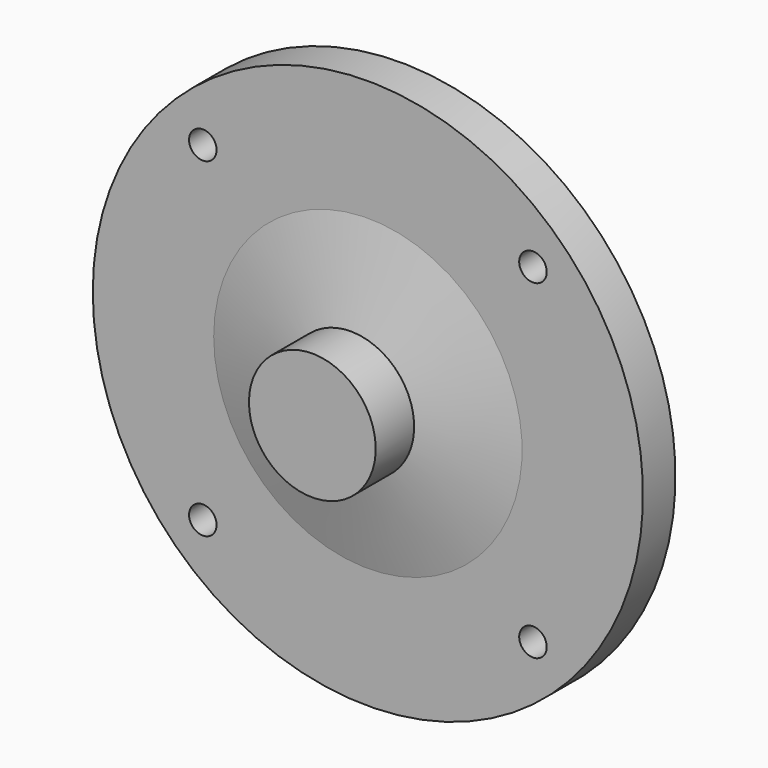
from build123d import *

# Parameters (mm, degrees)
F2_R     = 0.25
F3_DEPTH = 25


with BuildPart() as f1:
    # F0 (on Top) → F1 (revolve)
    with BuildSketch(Plane.XY):
        with BuildLine():
            Line((0, -2), (0, 0.403768))
            ThreePointArc((0, 0.403768), (-1.42086, 0.302312), (-2.812888, 0))
            Line((-2.812888, 0), (-5, 0))
            Line((-5, 0), (-5, -0.738022))
            Line((-5, -0.738022), (-2.802643, -0.738022))
            Line((-2.802643, -0.738022), (-1.151906, -1.127067))
            Line((-1.151906, -1.127067), (-1.151906, -2))
            Line((-1.151906, -2), (0, -2))
        make_face()
    revolve(axis=Axis((0, -0.798116, 0), (0, 1, 0)))

    # F2 (on face) → F3 (cut)
    with BuildSketch(Plane.XZ.offset(0.738022)):
        with Locations((3, 3)):
            Circle(F2_R)
        with Locations((-3, 3)):
            Circle(F2_R)
        with Locations((-3, -3)):
            Circle(F2_R)
        with Locations((3, -3)):
            Circle(F2_R)
    extrude(amount=-F3_DEPTH, mode=Mode.SUBTRACT)


solid = f1.part
